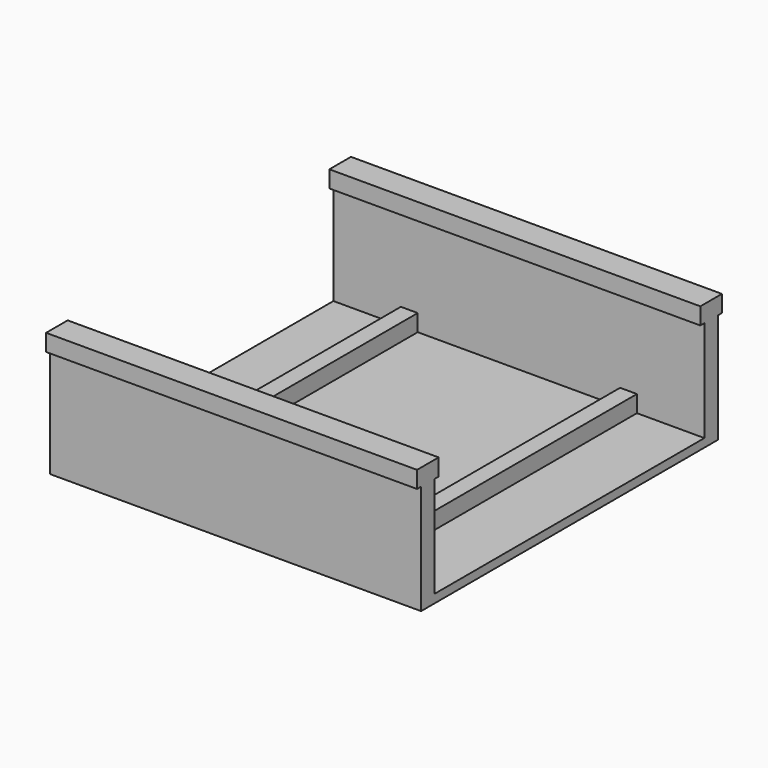
from build123d import *

# Parameters (mm, degrees)
SKETCH_W            = 220
SKETCH_H            = 220
PAD_DEPTH           = 5
PAD001_DEPTH        = 220
LINEARPATTERN_COUNT = 2
LINEARPATTERN_PITCH = 210
SKETCH003_W         = 10
SKETCH003_H         = 200
PAD003_DEPTH        = 10


with BuildPart() as part:
    # Sketch → Pad (new body)
    with BuildSketch(Plane.XY):
        Rectangle(SKETCH_W, SKETCH_H)
    extrude(amount=PAD_DEPTH)

    # Sketch001 (on Face2 of Pad) → Pad001 (join)
    with BuildSketch(Plane.YZ.offset(110)):
        Polygon((-110, 5), (-110, 65), (-113, 65), (-113, 75), (-97, 75), (-97, 65), (-100, 65), (-100, 5), align=None)
    pad001 = extrude(amount=-PAD001_DEPTH)

    # LinearPattern: Pad001 ×2
    with Locations(*[(0, i * LINEARPATTERN_PITCH, 0) for i in range(1, LINEARPATTERN_COUNT)]):
        add(pad001)

    # Sketch003 (on Face7 of LinearPattern) → Pad003 (join)
    with BuildSketch(Plane.XY.offset(5)):
        with Locations((-65, 0)):
            Rectangle(SKETCH003_W, SKETCH003_H)
        with Locations((65, 0)):
            Rectangle(SKETCH003_W, SKETCH003_H)
    extrude(amount=PAD003_DEPTH)


solid = part.part
